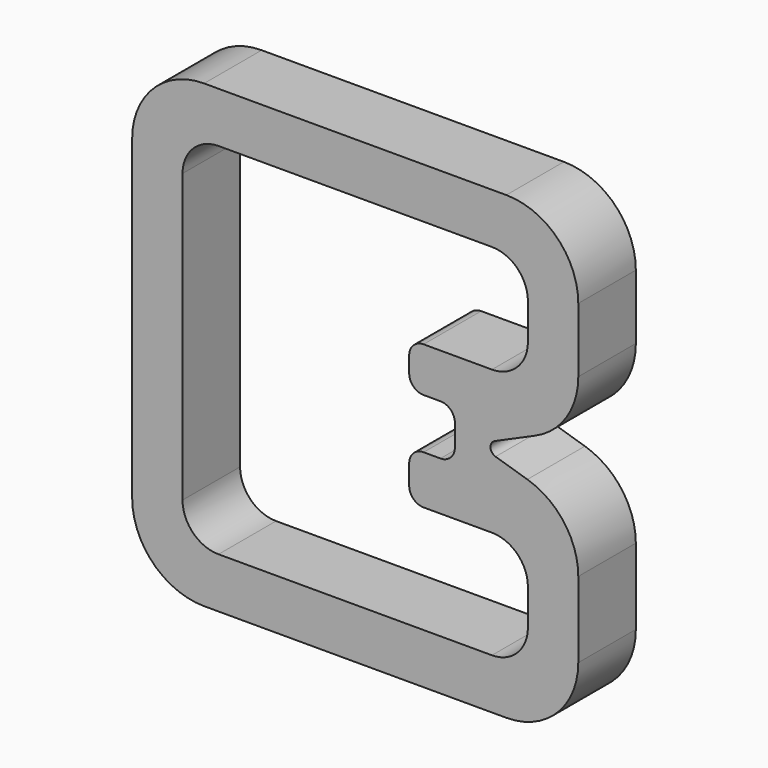
from build123d import *

# Parameters (mm, degrees)
F1_DEPTH = 10
F2_R     = 5
F3_R     = 2
F4_R     = 10
F5_R     = 1
F6_R     = 10


with BuildPart() as f1:
    # F0 (on Front) → F1 (new body)
    with BuildSketch(Plane.XZ):
        Polygon((-27.5, 34.135083), (-27.5, -29.821047), (34.5, -29.821047), (34.5, -1.869009), (20.437485, 2.430633), (34.5, 8.652056), (34.5, 34.135083), align=None)
        Polygon((-20.5, 27.135083), (27.5, 27.135083), (27.5, 12.135083), (11, 12.135083), (11, 5.930633), (17.350806, 5.930633), (17.350806, -1.069367), (11, -1.069367), (11, -7.821047), (27.5, -7.821047), (27.5, -22.821047), (-20.5, -22.821047), align=None, mode=Mode.SUBTRACT)
    extrude(amount=F1_DEPTH)

    # F2
    f2_edges = [f1.edges().sort_by_distance(p)[0] for p in [
        (-20.5, -5, 27.135083),
        (27.5, -5, 27.135083),
        (27.5, -5, 12.135083),
        (-20.5, -5, -22.821047),
        (27.5, -5, -22.821047),
        (27.5, -5, -7.821047),
    ]]
    fillet(f2_edges, radius=F2_R)

    # F3
    f3_edges = [f1.edges().sort_by_distance(p)[0] for p in [
        (11, -5, 12.135083),
        (11, -5, 5.930633),
        (17.350806, -5, 5.930633),
        (17.350806, -5, -1.069367),
        (11, -5, -1.069367),
        (11, -5, -7.821047),
    ]]
    fillet(f3_edges, radius=F3_R)

    # F4
    f4_edges = [f1.edges().sort_by_distance(p)[0] for p in [
        (34.5, -5, 34.135083),
        (34.5, -5, 8.652056),
        (34.5, -5, -1.869009),
        (34.5, -5, -29.821047),
    ]]
    fillet(f4_edges, radius=F4_R)

    # F5
    f5_edges = [f1.edges().sort_by_distance(p)[0] for p in [
        (20.437485, -5, 2.430633),
    ]]
    fillet(f5_edges, radius=F5_R)

    # F6
    f6_edges = [f1.edges().sort_by_distance(p)[0] for p in [
        (-27.5, -5, 34.135083),
        (-27.5, -5, -29.821047),
    ]]
    fillet(f6_edges, radius=F6_R)


solid = f1.part
